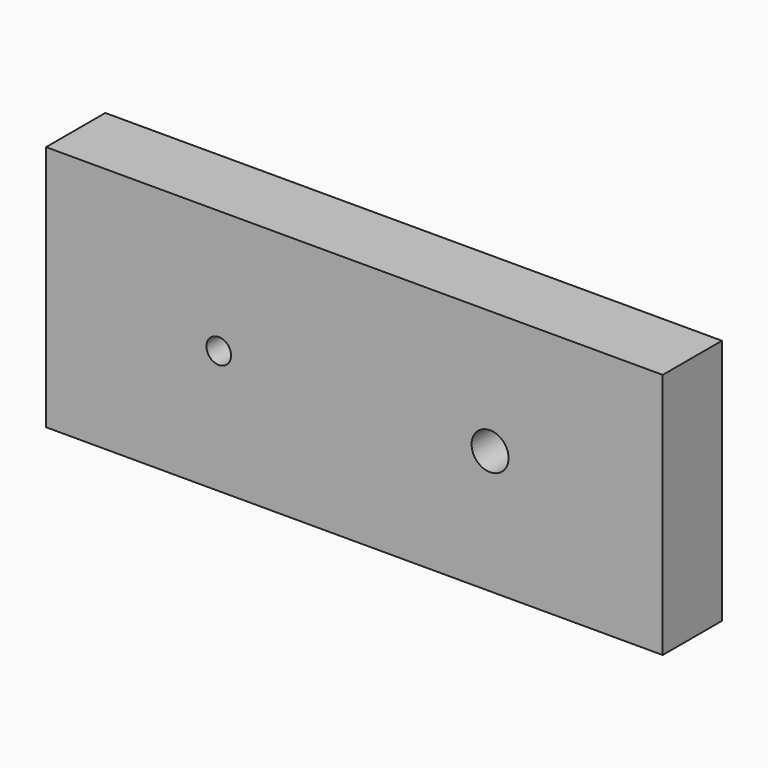
from build123d import *

# Parameters (mm, degrees)
F1_W     = 500
F1_H     = 200
F2_DEPTH = 60
F3_R     = 15
F3_R_2   = 10
F4_DEPTH = 60.001


with BuildPart() as f2:
    # F1 (on Front) → F2 (new body)
    with BuildSketch(Plane.XZ):
        Rectangle(F1_W, F1_H)
    extrude(amount=F2_DEPTH)

    # F3 (on face) → F4 (cut, through all)
    with BuildSketch(Plane.XZ.offset(60)):
        with Locations((110, 0)):
            Circle(F3_R)
        with Locations((-110, 0)):
            Circle(F3_R_2)
    extrude(amount=-F4_DEPTH, mode=Mode.SUBTRACT)


solid = f2.part
